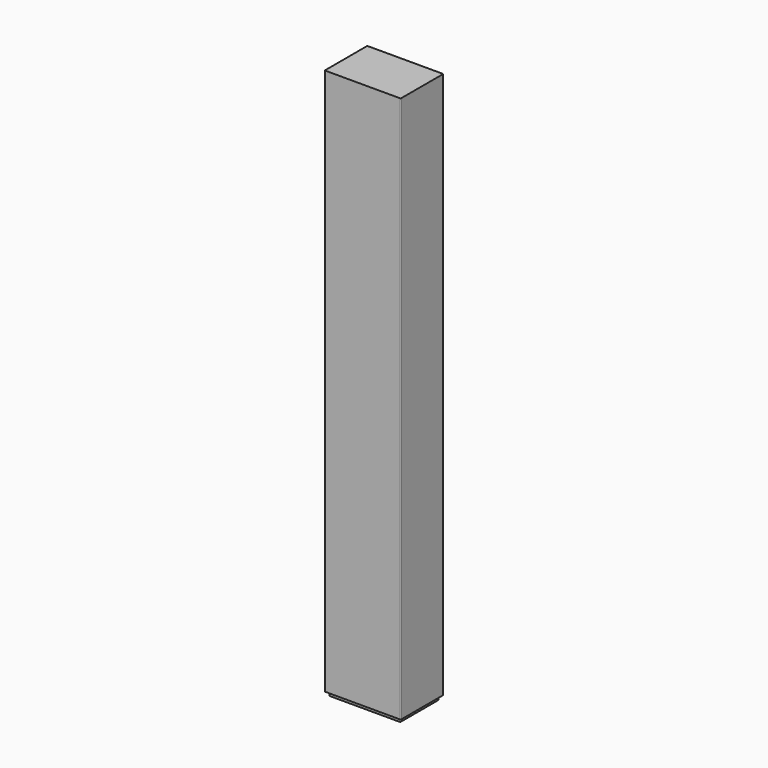
from build123d import *

# Parameters (mm, degrees)
F1_DEPTH = 720
F3_DEPTH = 725


with BuildPart() as f1:
    # F0 (on Top) → F1 (new body)
    with BuildSketch(Plane.XY):
        with BuildLine():
            ThreePointArc((0, 1), (0.292893, 0.292893), (1, 0))
            Line((1, 0), (99, 0))
            ThreePointArc((99, 0), (99.707107, 0.292893), (100, 1))
            Line((100, 1), (100, 69))
            ThreePointArc((100, 69), (99.707107, 69.707107), (99, 70))
            Line((99, 70), (1, 70))
            ThreePointArc((1, 70), (0.292893, 69.707107), (0, 69))
            Line((0, 69), (0, 1))
        make_face()
    extrude(amount=-F1_DEPTH)

    # F2 (on face) → F3 (join)
    with BuildSketch(Plane.XY):
        with BuildLine():
            ThreePointArc((3, 4), (3.292893, 3.292893), (4, 3))
            Line((4, 3), (96, 3))
            ThreePointArc((96, 3), (96.707107, 3.292893), (97, 4))
            Line((97, 4), (97, 66))
            ThreePointArc((97, 66), (96.707107, 66.707107), (96, 67))
            Line((96, 67), (4, 67))
            ThreePointArc((4, 67), (3.292893, 66.707107), (3, 66))
            Line((3, 66), (3, 4))
        make_face()
    extrude(amount=-F3_DEPTH)


solid = f1.part
